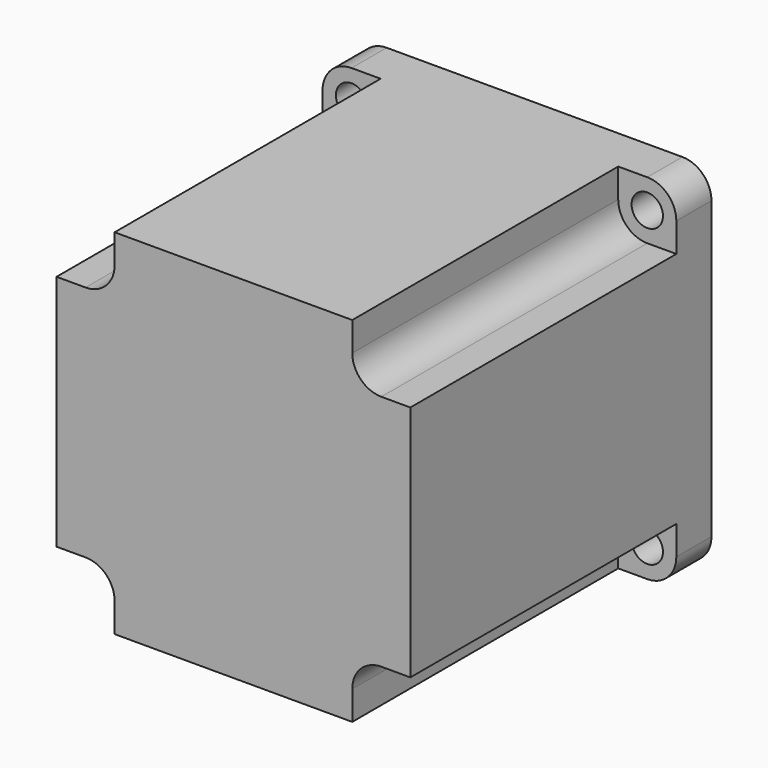
from build123d import *

# Parameters (mm, degrees)
F0_R     = 2.5
F1_DEPTH = 7
F3_DEPTH = 53
F4_R     = 19.05
F5_DEPTH = 1.6
F6_R     = 3.175
F7_DEPTH = 21


with BuildPart() as f1:
    # F0 (on Front) → F1 (new body)
    with BuildSketch(Plane.XZ):
        with BuildLine():
            ThreePointArc((28.2, 23.57), (26.843904, 26.843904), (23.57, 28.2))
            Line((23.57, 28.2), (-23.57, 28.2))
            ThreePointArc((-23.57, 28.2), (-26.843904, 26.843904), (-28.2, 23.57))
            Line((-28.2, 23.57), (-28.2, -23.57))
            ThreePointArc((-28.2, -23.57), (-26.843904, -26.843904), (-23.57, -28.2))
            Line((-23.57, -28.2), (23.57, -28.2))
            ThreePointArc((23.57, -28.2), (26.843904, -26.843904), (28.2, -23.57))
            Line((28.2, -23.57), (28.2, 23.57))
        make_face()
        with Locations((-23.57, -23.57)):
            Circle(F0_R, mode=Mode.SUBTRACT)
        with Locations((23.57, -23.57)):
            Circle(F0_R, mode=Mode.SUBTRACT)
        with Locations((-23.57, 23.57)):
            Circle(F0_R, mode=Mode.SUBTRACT)
        with Locations((23.57, 23.57)):
            Circle(F0_R, mode=Mode.SUBTRACT)
    extrude(amount=F1_DEPTH)

    # F2 (on face) → F3 (join)
    with BuildSketch(Plane.XZ.offset(7)):
        with BuildLine():
            Line((-28.2, 18.94), (-28.2, 0))
            Line((-28.2, 0), (-28.2, -18.94))
            Line((-28.2, -18.94), (-23.57, -18.94))
            ThreePointArc((-23.57, -18.94), (-20.296096, -20.296096), (-18.94, -23.57))
            Line((-18.94, -23.57), (-18.94, -28.2))
            Line((-18.94, -28.2), (0, -28.2))
            Line((0, -28.2), (18.94, -28.2))
            Line((18.94, -28.2), (18.94, -23.57))
            ThreePointArc((18.94, -23.57), (20.296096, -20.296096), (23.57, -18.94))
            Line((23.57, -18.94), (28.2, -18.94))
            Line((28.2, -18.94), (28.2, 0))
            Line((28.2, 0), (28.2, 18.94))
            Line((28.2, 18.94), (23.57, 18.94))
            ThreePointArc((23.57, 18.94), (20.296096, 20.296096), (18.94, 23.57))
            Line((18.94, 23.57), (18.94, 28.2))
            Line((18.94, 28.2), (0, 28.2))
            Line((0, 28.2), (-18.94, 28.2))
            Line((-18.94, 28.2), (-18.94, 23.57))
            ThreePointArc((-18.94, 23.57), (-20.296096, 20.296096), (-23.57, 18.94))
            Line((-23.57, 18.94), (-28.2, 18.94))
        make_face()
    extrude(amount=F3_DEPTH)

    # F4 (on face) → F5 (join)
    with BuildSketch(Plane(origin=(0, 0, 0), x_dir=(-1, 0, 0), z_dir=(0, 1, 0))):
        Circle(F4_R)
    extrude(amount=F5_DEPTH)

    # F6 (on face) → F7 (join)
    with BuildSketch(Plane(origin=(0, 1.6, 0), x_dir=(-1, 0, 0), z_dir=(0, 1, 0))):
        Circle(F6_R)
    extrude(amount=F7_DEPTH)


solid = f1.part
